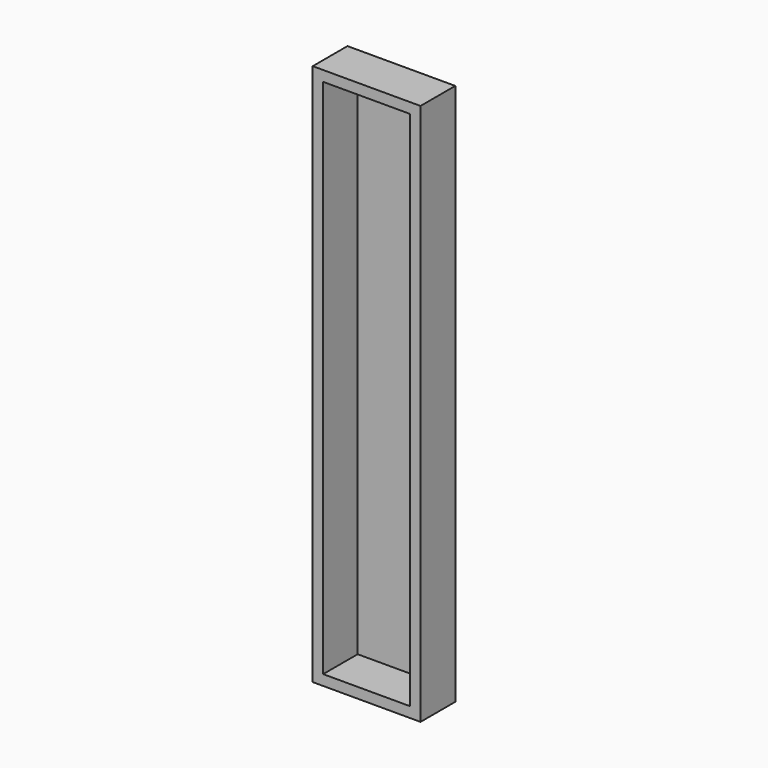
from build123d import *

# Parameters (mm, degrees)
F0_W     = 62
F0_H     = 312
F0_W_2   = 50
F0_H_2   = 300
F1_DEPTH = 0.2
F2_DEPTH = 25


with BuildPart() as f1:
    # F0 (on Front) → F1 (new body)
    with BuildSketch(Plane.XZ):
        Rectangle(F0_W, F0_H)
        Rectangle(F0_W_2, F0_H_2, mode=Mode.SUBTRACT)
        Rectangle(F0_W_2, F0_H_2)
    extrude(amount=F1_DEPTH)

    # F0 (on Front) → F2 (join)
    with BuildSketch(Plane.XZ):
        Rectangle(F0_W, F0_H)
        Rectangle(F0_W_2, F0_H_2, mode=Mode.SUBTRACT)
    extrude(amount=F2_DEPTH)


solid = f1.part
